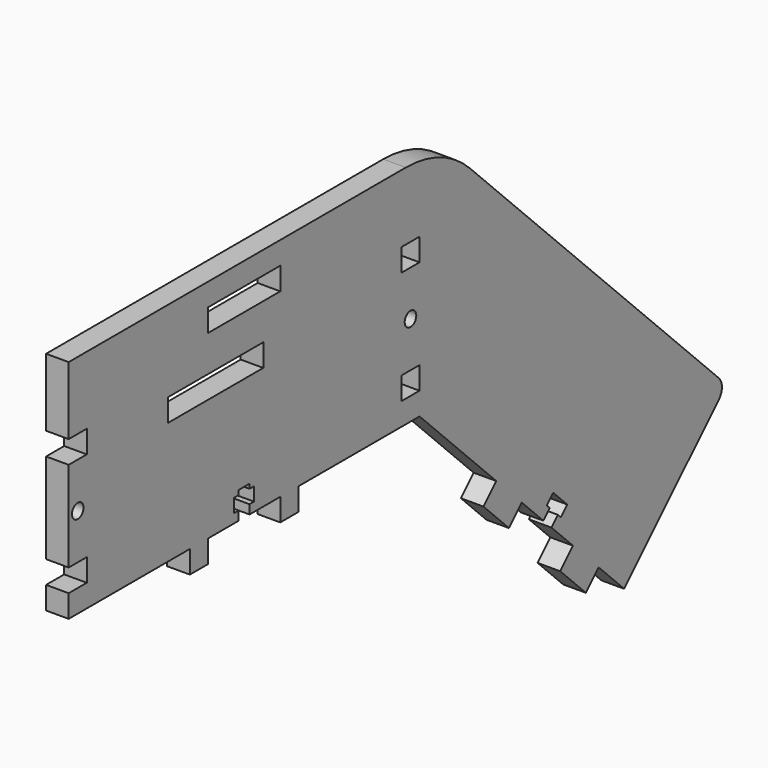
from build123d import *

# Parameters (mm, degrees)
F1_R     = 1.6
F1_W     = 26.4
F1_H     = 5
F1_W_2   = 20
F1_W_3   = 5
F2_DEPTH = 5


with BuildPart() as f2:
    # F1 (on Right) → F2 (new body)
    with BuildSketch(Plane.YZ):
        with BuildLine():
            Line((0, 5), (0, 0))
            Line((0, 0), (33.5, 0))
            Line((33.5, 0), (33.5, -5))
            Line((33.5, -5), (38.5, -5))
            Line((38.5, -5), (38.5, 0))
            Line((38.5, 0), (47, 0))
            Line((47, 0), (47, 2))
            Line((47, 2), (45.75, 2))
            Line((45.75, 2), (45.75, 5))
            Line((45.75, 5), (47, 5))
            Line((47, 5), (47, 6))
            Line((47, 6), (50, 6))
            Line((50, 6), (50, 5))
            Line((50, 5), (51.25, 5))
            Line((51.25, 5), (51.25, 2))
            Line((51.25, 2), (50, 2))
            Line((50, 2), (50, 0))
            Line((50, 0), (58.5, 0))
            Line((58.5, 0), (58.5, -5))
            Line((58.5, -5), (63.5, -5))
            Line((63.5, -5), (63.5, 0))
            Line((63.5, 0), (97, 0))
            Line((97, 0), (118.2132034356, -21.2132034356))
            Line((118.2132034356, -21.2132034356), (125.2842712475, -28.2842712475))
            Line((125.2842712475, -28.2842712475), (131.2239682094, -34.2239682094))
            Line((131.2239682094, -34.2239682094), (132.9917351624, -32.4562012565))
            Line((132.9917351624, -32.4562012565), (132.178562364, -31.6430284581))
            Line((132.178562364, -31.6430284581), (133.946329317, -29.8752615051))
            Line((133.946329317, -29.8752615051), (135.8908729653, -31.8198051534))
            Line((135.8908729653, -31.8198051534), (137.8354166135, -33.7643488017))
            Line((137.8354166135, -33.7643488017), (136.0676496606, -35.5321157546))
            Line((136.0676496606, -35.5321157546), (135.2544768622, -34.7189429563))
            Line((135.2544768622, -34.7189429563), (133.4867099092, -36.4867099092))
            Line((133.4867099092, -36.4867099092), (139.4264068712, -42.4264068712))
            Line((139.4264068712, -42.4264068712), (146.4974746831, -49.4974746831))
            Line((146.4974746831, -49.4974746831), (153.5685424949, -56.5685424949))
            Line((153.5685424949, -56.5685424949), (179.7314933988, -30.405591591))
            ThreePointArc((179.7314933988, -30.405591591), (180.6101730553, -28.2842712475), (179.7314933988, -26.1629509039))
            Line((179.7314933988, -26.1629509039), (110.8908729653, 42.6776695297))
            ThreePointArc((110.8908729653, 42.6776695297), (102.7802892447, 48.0969883128), (93.2132034356, 50))
            Line((93.2132034356, 50), (0, 50))
            Line((0, 50), (0, 35))
            Line((0, 35), (5, 35))
            Line((5, 35), (5, 30))
            Line((5, 30), (0, 30))
            Line((0, 30), (0, 10))
            Line((0, 10), (5, 10))
            Line((5, 10), (5, 5))
            Line((5, 5), (0, 5))
        make_face()
        with Locations((2.5, 20)):
            Circle(F1_R, mode=Mode.SUBTRACT)
        with Locations((40.6, 29.5)):
            Rectangle(F1_W, F1_H, mode=Mode.SUBTRACT)
        with Locations((48.5, 42.5)):
            Rectangle(F1_W_2, F1_H, mode=Mode.SUBTRACT)
        with Locations((94.5, 7.5)):
            Rectangle(F1_W_3, F1_H, mode=Mode.SUBTRACT)
        with Locations((94.5, 20)):
            Circle(F1_R, mode=Mode.SUBTRACT)
        with Locations((94.5, 32.5)):
            Rectangle(F1_W_3, F1_H, mode=Mode.SUBTRACT)
        Polygon((142.9619407771, -53.033008589), (146.4974746831, -49.4974746831), (139.4264068712, -42.4264068712), (135.8908729653, -45.9619407771), align=None)
        Polygon((125.2842712475, -28.2842712475), (118.2132034356, -21.2132034356), (114.6776695297, -24.7487373415), (121.7487373415, -31.8198051534), align=None)
    extrude(amount=F2_DEPTH)


solid = f2.part
